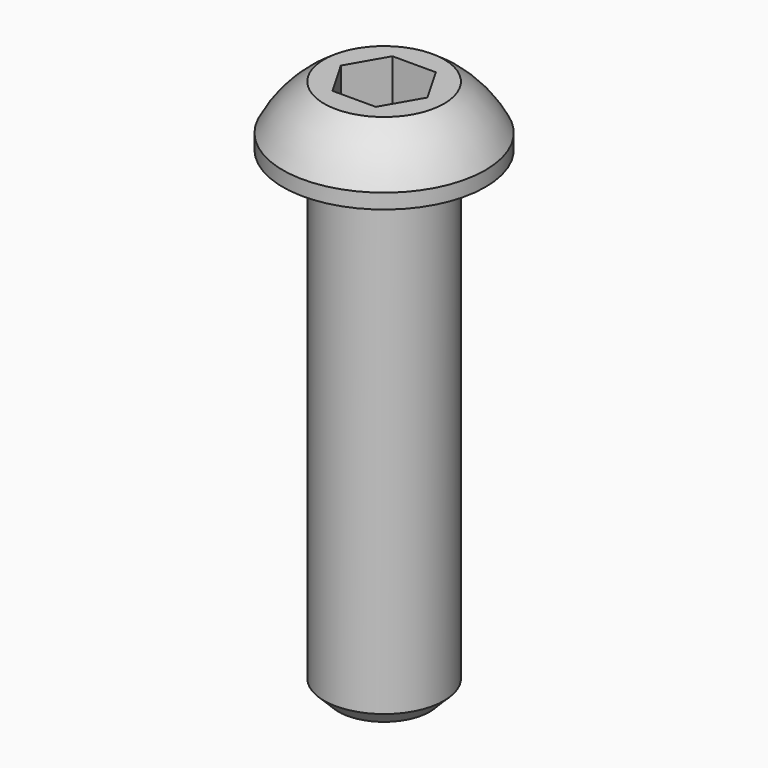
from build123d import *

# Parameters (mm, degrees)
F0_W     = 3.175
F0_H     = 25.4
F2_SIZE2 = 0.762
F2_SIZE  = 0.762
F4_DEPTH = 2.8194


with BuildPart() as f1:
    # F0 (on Front) → F1 (revolve)
    with BuildSketch(Plane.XZ):
        with Locations((1.5875, 12.7)):
            Rectangle(F0_W, F0_H)
        with BuildLine():
            Line((0, 28.575), (0, 25.4))
            Line((0, 25.4), (3.175, 25.4))
            Line((3.175, 25.4), (5.3594, 25.4))
            Line((5.3594, 25.4), (5.3594, 26.1874))
            ThreePointArc((5.3594, 26.1874), (4.431365, 27.531394), (3.175, 28.575))
            Line((3.175, 28.575), (0, 28.575))
        make_face()
    revolve(axis=Axis((0, 0, 12.7), (0, 0, 1)))

    # F2
    f2_edges = [f1.edges().sort_by_distance(p)[0] for p in [
        (-3.175, 0, 0),
    ]]
    chamfer(f2_edges, length=F2_SIZE, length2=F2_SIZE2)

    # F3 (on face) → F4 (cut)
    with BuildSketch(Plane.XY.offset(28.575)):
        Polygon((1.145679, 1.984375), (-1.145679, 1.984375), (-2.291359, 0), (-1.145679, -1.984375), (1.145679, -1.984375), (2.291359, 0), align=None)
    extrude(amount=-F4_DEPTH, mode=Mode.SUBTRACT)


solid = f1.part
